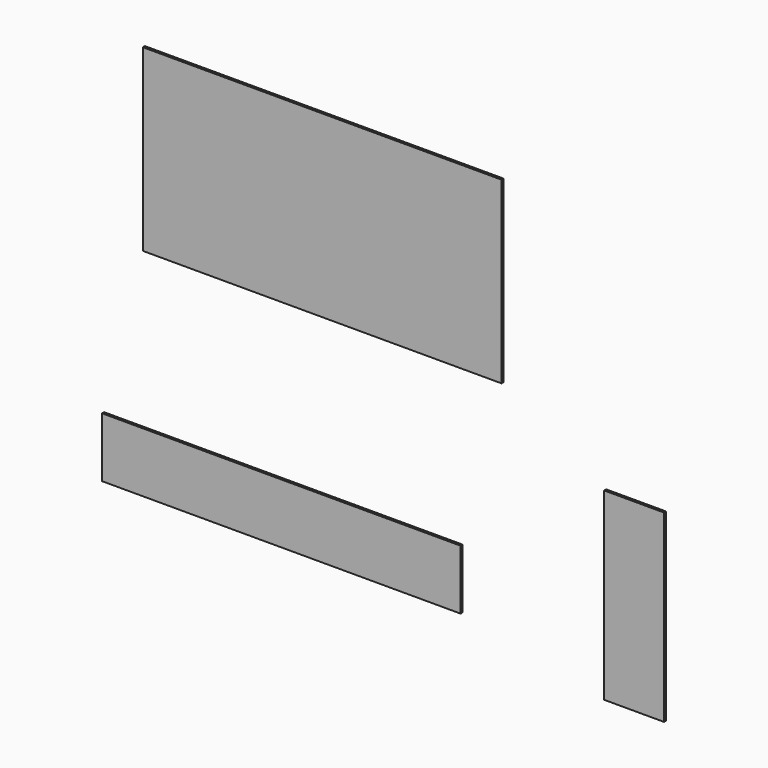
from build123d import *

# Parameters (mm, degrees)
F0_W     = 1828.8
F0_H     = 914.4
F0_W_2   = 304.8
F0_H_2   = 939.8
F0_H_3   = 304.8
F1_DEPTH = 12.7


with BuildPart() as f1:
    # F0 (on Front) → F1 (new body)
    with BuildSketch(Plane.XZ):
        with Locations((-705.744623, 1253.862967)):
            Rectangle(F0_W, F0_H)
        with Locations((884.738797, 16.289238)):
            Rectangle(F0_W_2, F0_H_2)
        with Locations((-914.4, -152.4)):
            Rectangle(F0_W, F0_H_3)
    extrude(amount=F1_DEPTH)


solid = f1.part
